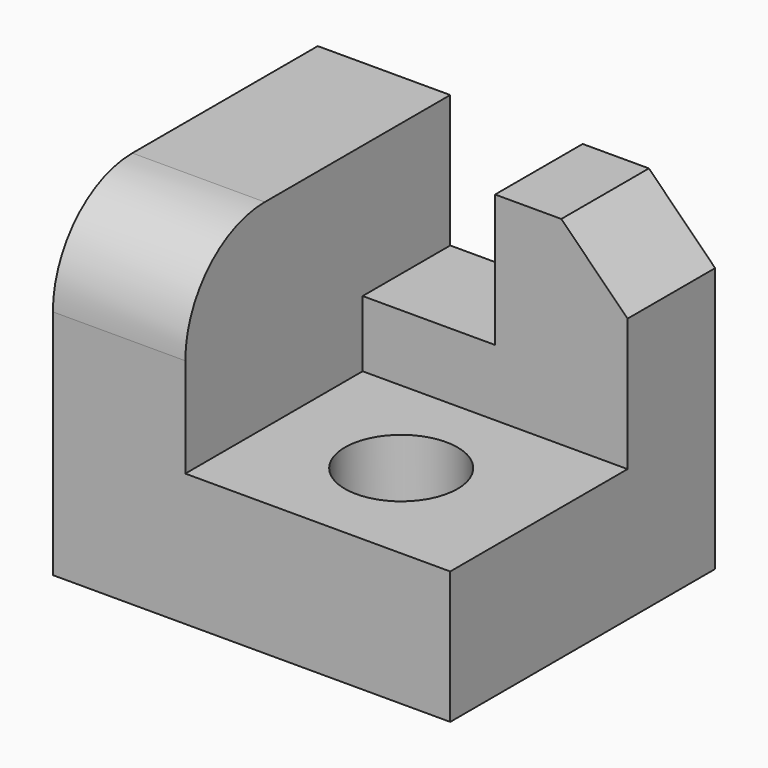
from build123d import *

# Parameters (mm, degrees)
F0_W     = 152.4
F0_H     = 127
F1_DEPTH = 127
F3_DEPTH = 76.2
F4_W     = 50.8
F4_H     = 41.993012
F5_DEPTH = 50.8
F7_SIZE  = 25.4
F6_R     = 21.59
F8_DEPTH = 50.801
F9_R     = 38.1


with BuildPart() as f1:
    # F0 (on Top) → F1 (new body)
    with BuildSketch(Plane.XY):
        with Locations((1.093576, 7.667228)):
            Rectangle(F0_W, F0_H)
    extrude(amount=F1_DEPTH)

    # F2 (on face) → F3 (cut)
    with BuildSketch(Plane.XY.offset(127)):
        Polygon((26.493576, 29.174216), (-24.306424, 29.174216), (-24.306424, -55.832772), (77.293576, -55.832772), (77.293576, 29.174216), align=None)
    extrude(amount=-F3_DEPTH, mode=Mode.SUBTRACT)

    # F4 (on face) → F5 (cut)
    with BuildSketch(Plane.XY.offset(127)):
        with Locations((1.093576, 50.170722)):
            Rectangle(F4_W, F4_H)
    extrude(amount=-F5_DEPTH, mode=Mode.SUBTRACT)

    # F7
    f7_edges = [f1.edges().sort_by_distance(p)[0] for p in [
        (77.293576, 50.170722, 127),
    ]]
    chamfer(f7_edges, length=F7_SIZE)

    # F6 (on face) → F8 (cut, through all)
    with BuildSketch(Plane.XY.offset(50.8)):
        with Locations((23.953576, -12.652772)):
            Circle(F6_R)
    extrude(amount=-F8_DEPTH, mode=Mode.SUBTRACT)

    # F9
    f9_edges = [f1.edges().sort_by_distance(p)[0] for p in [
        (-49.706424, -55.832772, 127),
    ]]
    fillet(f9_edges, radius=F9_R)


solid = f1.part
